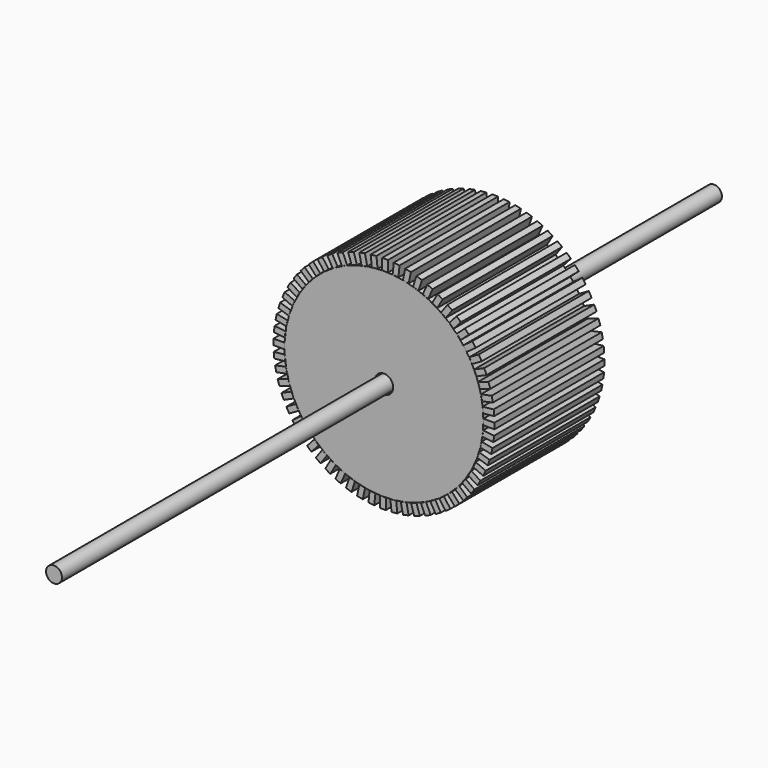
from build123d import *

# Parameters (mm, degrees)
F1_W     = 1.076036
F1_H     = 2.032509
F2_DEPTH = 25.4
F0_R     = 18.3705
F0_R_2   = 1.700051
F3_DEPTH = 25.4
F4_COUNT = 60
F5_R     = 1.467265
F6_DEPTH = 76.2


with BuildPart() as f2:
    # F1 (on Front) → F2 (new body)
    with BuildSketch(Plane.XZ):
        with Locations((-36.357198, 31.241358)):
            Rectangle(F1_W, F1_H)
    extrude(amount=F2_DEPTH)


with BuildPart() as f3:
    # F0 (on Front) → F3 (new body)
    with BuildSketch(Plane.XZ):
        with Locations((-36.563102, 11.849154)):
            Circle(F0_R)
        with Locations((-36.563102, 11.849154)):
            Circle(F0_R_2, mode=Mode.SUBTRACT)
    extrude(amount=F3_DEPTH)


with BuildPart() as f4_1:
    # F4: instance of F2
    add(f2.part.rotate(Axis((-36.563102, -25.4, 11.849154), (0, 1, 0)), 1 * 360 / F4_COUNT))


with BuildPart() as f4_2:
    # F4: instance of F2
    add(f2.part.rotate(Axis((-36.563102, -25.4, 11.849154), (0, 1, 0)), 2 * 360 / F4_COUNT))


with BuildPart() as f4_3:
    # F4: instance of F2
    add(f2.part.rotate(Axis((-36.563102, -25.4, 11.849154), (0, 1, 0)), 3 * 360 / F4_COUNT))


with BuildPart() as f4_4:
    # F4: instance of F2
    add(f2.part.rotate(Axis((-36.563102, -25.4, 11.849154), (0, 1, 0)), 4 * 360 / F4_COUNT))


with BuildPart() as f4_5:
    # F4: instance of F2
    add(f2.part.rotate(Axis((-36.563102, -25.4, 11.849154), (0, 1, 0)), 5 * 360 / F4_COUNT))


with BuildPart() as f4_6:
    # F4: instance of F2
    add(f2.part.rotate(Axis((-36.563102, -25.4, 11.849154), (0, 1, 0)), 6 * 360 / F4_COUNT))


with BuildPart() as f4_7:
    # F4: instance of F2
    add(f2.part.rotate(Axis((-36.563102, -25.4, 11.849154), (0, 1, 0)), 7 * 360 / F4_COUNT))


with BuildPart() as f4_8:
    # F4: instance of F2
    add(f2.part.rotate(Axis((-36.563102, -25.4, 11.849154), (0, 1, 0)), 8 * 360 / F4_COUNT))


with BuildPart() as f4_9:
    # F4: instance of F2
    add(f2.part.rotate(Axis((-36.563102, -25.4, 11.849154), (0, 1, 0)), 9 * 360 / F4_COUNT))


with BuildPart() as f4_10:
    # F4: instance of F2
    add(f2.part.rotate(Axis((-36.563102, -25.4, 11.849154), (0, 1, 0)), 10 * 360 / F4_COUNT))


with BuildPart() as f4_11:
    # F4: instance of F2
    add(f2.part.rotate(Axis((-36.563102, -25.4, 11.849154), (0, 1, 0)), 11 * 360 / F4_COUNT))


with BuildPart() as f4_12:
    # F4: instance of F2
    add(f2.part.rotate(Axis((-36.563102, -25.4, 11.849154), (0, 1, 0)), 12 * 360 / F4_COUNT))


with BuildPart() as f4_13:
    # F4: instance of F2
    add(f2.part.rotate(Axis((-36.563102, -25.4, 11.849154), (0, 1, 0)), 13 * 360 / F4_COUNT))


with BuildPart() as f4_14:
    # F4: instance of F2
    add(f2.part.rotate(Axis((-36.563102, -25.4, 11.849154), (0, 1, 0)), 14 * 360 / F4_COUNT))


with BuildPart() as f4_15:
    # F4: instance of F2
    add(f2.part.rotate(Axis((-36.563102, -25.4, 11.849154), (0, 1, 0)), 15 * 360 / F4_COUNT))


with BuildPart() as f4_16:
    # F4: instance of F2
    add(f2.part.rotate(Axis((-36.563102, -25.4, 11.849154), (0, 1, 0)), 16 * 360 / F4_COUNT))


with BuildPart() as f4_17:
    # F4: instance of F2
    add(f2.part.rotate(Axis((-36.563102, -25.4, 11.849154), (0, 1, 0)), 17 * 360 / F4_COUNT))


with BuildPart() as f4_18:
    # F4: instance of F2
    add(f2.part.rotate(Axis((-36.563102, -25.4, 11.849154), (0, 1, 0)), 18 * 360 / F4_COUNT))


with BuildPart() as f4_19:
    # F4: instance of F2
    add(f2.part.rotate(Axis((-36.563102, -25.4, 11.849154), (0, 1, 0)), 19 * 360 / F4_COUNT))


with BuildPart() as f4_20:
    # F4: instance of F2
    add(f2.part.rotate(Axis((-36.563102, -25.4, 11.849154), (0, 1, 0)), 20 * 360 / F4_COUNT))


with BuildPart() as f4_21:
    # F4: instance of F2
    add(f2.part.rotate(Axis((-36.563102, -25.4, 11.849154), (0, 1, 0)), 21 * 360 / F4_COUNT))


with BuildPart() as f4_22:
    # F4: instance of F2
    add(f2.part.rotate(Axis((-36.563102, -25.4, 11.849154), (0, 1, 0)), 22 * 360 / F4_COUNT))


with BuildPart() as f4_23:
    # F4: instance of F2
    add(f2.part.rotate(Axis((-36.563102, -25.4, 11.849154), (0, 1, 0)), 23 * 360 / F4_COUNT))


with BuildPart() as f4_24:
    # F4: instance of F2
    add(f2.part.rotate(Axis((-36.563102, -25.4, 11.849154), (0, 1, 0)), 24 * 360 / F4_COUNT))


with BuildPart() as f4_25:
    # F4: instance of F2
    add(f2.part.rotate(Axis((-36.563102, -25.4, 11.849154), (0, 1, 0)), 25 * 360 / F4_COUNT))


with BuildPart() as f4_26:
    # F4: instance of F2
    add(f2.part.rotate(Axis((-36.563102, -25.4, 11.849154), (0, 1, 0)), 26 * 360 / F4_COUNT))


with BuildPart() as f4_27:
    # F4: instance of F2
    add(f2.part.rotate(Axis((-36.563102, -25.4, 11.849154), (0, 1, 0)), 27 * 360 / F4_COUNT))


with BuildPart() as f4_28:
    # F4: instance of F2
    add(f2.part.rotate(Axis((-36.563102, -25.4, 11.849154), (0, 1, 0)), 28 * 360 / F4_COUNT))


with BuildPart() as f4_29:
    # F4: instance of F2
    add(f2.part.rotate(Axis((-36.563102, -25.4, 11.849154), (0, 1, 0)), 29 * 360 / F4_COUNT))


with BuildPart() as f4_30:
    # F4: instance of F2
    add(f2.part.rotate(Axis((-36.563102, -25.4, 11.849154), (0, 1, 0)), 30 * 360 / F4_COUNT))


with BuildPart() as f4_31:
    # F4: instance of F2
    add(f2.part.rotate(Axis((-36.563102, -25.4, 11.849154), (0, 1, 0)), 31 * 360 / F4_COUNT))


with BuildPart() as f4_32:
    # F4: instance of F2
    add(f2.part.rotate(Axis((-36.563102, -25.4, 11.849154), (0, 1, 0)), 32 * 360 / F4_COUNT))


with BuildPart() as f4_33:
    # F4: instance of F2
    add(f2.part.rotate(Axis((-36.563102, -25.4, 11.849154), (0, 1, 0)), 33 * 360 / F4_COUNT))


with BuildPart() as f4_34:
    # F4: instance of F2
    add(f2.part.rotate(Axis((-36.563102, -25.4, 11.849154), (0, 1, 0)), 34 * 360 / F4_COUNT))


with BuildPart() as f4_35:
    # F4: instance of F2
    add(f2.part.rotate(Axis((-36.563102, -25.4, 11.849154), (0, 1, 0)), 35 * 360 / F4_COUNT))


with BuildPart() as f4_36:
    # F4: instance of F2
    add(f2.part.rotate(Axis((-36.563102, -25.4, 11.849154), (0, 1, 0)), 36 * 360 / F4_COUNT))


with BuildPart() as f4_37:
    # F4: instance of F2
    add(f2.part.rotate(Axis((-36.563102, -25.4, 11.849154), (0, 1, 0)), 37 * 360 / F4_COUNT))


with BuildPart() as f4_38:
    # F4: instance of F2
    add(f2.part.rotate(Axis((-36.563102, -25.4, 11.849154), (0, 1, 0)), 38 * 360 / F4_COUNT))


with BuildPart() as f4_39:
    # F4: instance of F2
    add(f2.part.rotate(Axis((-36.563102, -25.4, 11.849154), (0, 1, 0)), 39 * 360 / F4_COUNT))


with BuildPart() as f4_40:
    # F4: instance of F2
    add(f2.part.rotate(Axis((-36.563102, -25.4, 11.849154), (0, 1, 0)), 40 * 360 / F4_COUNT))


with BuildPart() as f4_41:
    # F4: instance of F2
    add(f2.part.rotate(Axis((-36.563102, -25.4, 11.849154), (0, 1, 0)), 41 * 360 / F4_COUNT))


with BuildPart() as f4_42:
    # F4: instance of F2
    add(f2.part.rotate(Axis((-36.563102, -25.4, 11.849154), (0, 1, 0)), 42 * 360 / F4_COUNT))


with BuildPart() as f4_43:
    # F4: instance of F2
    add(f2.part.rotate(Axis((-36.563102, -25.4, 11.849154), (0, 1, 0)), 43 * 360 / F4_COUNT))


with BuildPart() as f4_44:
    # F4: instance of F2
    add(f2.part.rotate(Axis((-36.563102, -25.4, 11.849154), (0, 1, 0)), 44 * 360 / F4_COUNT))


with BuildPart() as f4_45:
    # F4: instance of F2
    add(f2.part.rotate(Axis((-36.563102, -25.4, 11.849154), (0, 1, 0)), 45 * 360 / F4_COUNT))


with BuildPart() as f4_46:
    # F4: instance of F2
    add(f2.part.rotate(Axis((-36.563102, -25.4, 11.849154), (0, 1, 0)), 46 * 360 / F4_COUNT))


with BuildPart() as f4_47:
    # F4: instance of F2
    add(f2.part.rotate(Axis((-36.563102, -25.4, 11.849154), (0, 1, 0)), 47 * 360 / F4_COUNT))


with BuildPart() as f4_48:
    # F4: instance of F2
    add(f2.part.rotate(Axis((-36.563102, -25.4, 11.849154), (0, 1, 0)), 48 * 360 / F4_COUNT))


with BuildPart() as f4_49:
    # F4: instance of F2
    add(f2.part.rotate(Axis((-36.563102, -25.4, 11.849154), (0, 1, 0)), 49 * 360 / F4_COUNT))


with BuildPart() as f4_50:
    # F4: instance of F2
    add(f2.part.rotate(Axis((-36.563102, -25.4, 11.849154), (0, 1, 0)), 50 * 360 / F4_COUNT))


with BuildPart() as f4_51:
    # F4: instance of F2
    add(f2.part.rotate(Axis((-36.563102, -25.4, 11.849154), (0, 1, 0)), 51 * 360 / F4_COUNT))


with BuildPart() as f4_52:
    # F4: instance of F2
    add(f2.part.rotate(Axis((-36.563102, -25.4, 11.849154), (0, 1, 0)), 52 * 360 / F4_COUNT))


with BuildPart() as f4_53:
    # F4: instance of F2
    add(f2.part.rotate(Axis((-36.563102, -25.4, 11.849154), (0, 1, 0)), 53 * 360 / F4_COUNT))


with BuildPart() as f4_54:
    # F4: instance of F2
    add(f2.part.rotate(Axis((-36.563102, -25.4, 11.849154), (0, 1, 0)), 54 * 360 / F4_COUNT))


with BuildPart() as f4_55:
    # F4: instance of F2
    add(f2.part.rotate(Axis((-36.563102, -25.4, 11.849154), (0, 1, 0)), 55 * 360 / F4_COUNT))


with BuildPart() as f4_56:
    # F4: instance of F2
    add(f2.part.rotate(Axis((-36.563102, -25.4, 11.849154), (0, 1, 0)), 56 * 360 / F4_COUNT))


with BuildPart() as f4_57:
    # F4: instance of F2
    add(f2.part.rotate(Axis((-36.563102, -25.4, 11.849154), (0, 1, 0)), 57 * 360 / F4_COUNT))


with BuildPart() as f4_58:
    # F4: instance of F2
    add(f2.part.rotate(Axis((-36.563102, -25.4, 11.849154), (0, 1, 0)), 58 * 360 / F4_COUNT))


with BuildPart() as f4_59:
    # F4: instance of F2
    add(f2.part.rotate(Axis((-36.563102, -25.4, 11.849154), (0, 1, 0)), 59 * 360 / F4_COUNT))


with BuildPart() as f6:
    # F5 (on face) → F6 (new body, symmetric)
    with BuildSketch(Plane.XZ.offset(25.4)):
        with Locations((-36.563102, 11.849154)):
            Circle(F5_R)
    extrude(amount=F6_DEPTH, both=True)


solid = Compound([f2.part, f3.part, f4_1.part, f4_2.part, f4_3.part, f4_4.part, f4_5.part, f4_6.part, f4_7.part, f4_8.part, f4_9.part, f4_10.part, f4_11.part, f4_12.part, f4_13.part, f4_14.part, f4_15.part, f4_16.part, f4_17.part, f4_18.part, f4_19.part, f4_20.part, f4_21.part, f4_22.part, f4_23.part, f4_24.part, f4_25.part, f4_26.part, f4_27.part, f4_28.part, f4_29.part, f4_30.part, f4_31.part, f4_32.part, f4_33.part, f4_34.part, f4_35.part, f4_36.part, f4_37.part, f4_38.part, f4_39.part, f4_40.part, f4_41.part, f4_42.part, f4_43.part, f4_44.part, f4_45.part, f4_46.part, f4_47.part, f4_48.part, f4_49.part, f4_50.part, f4_51.part, f4_52.part, f4_53.part, f4_54.part, f4_55.part, f4_56.part, f4_57.part, f4_58.part, f4_59.part, f6.part])
